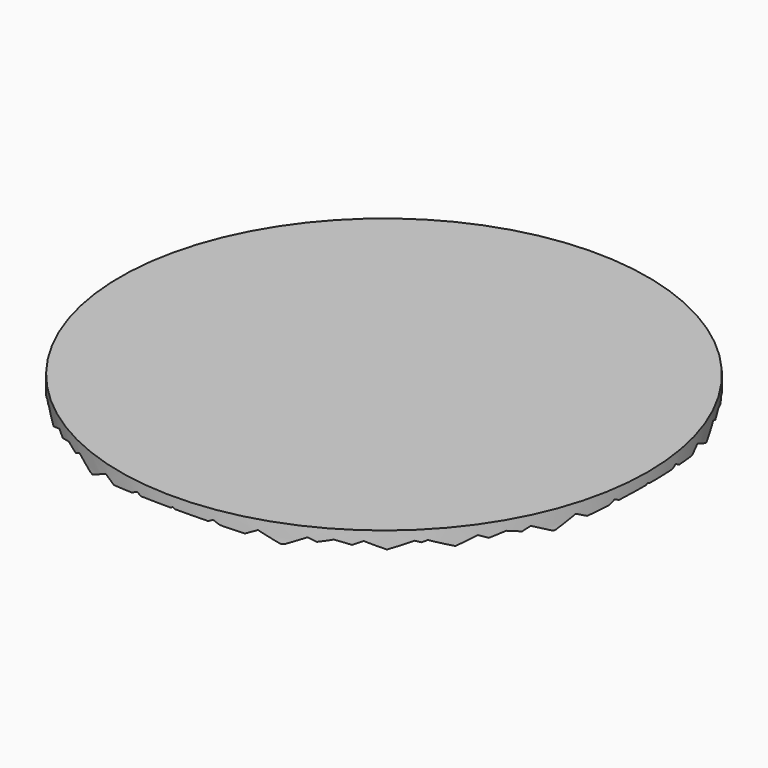
from build123d import *

# Parameters (mm, degrees)
F0_R     = 35.2425
F1_DEPTH = 2.54
F3_DEPTH = 50.8
F5_DEPTH = 50.8


with BuildPart() as f1:
    # F0 (on Top) → F1 (new body)
    with BuildSketch(Plane.XY):
        Circle(F0_R)
    extrude(amount=F1_DEPTH)

    # F2 (on Front) → F3 (cut, symmetric)
    with BuildSketch(Plane.XZ):
        Polygon((-35.56, 0), (-33.02, 0), (-35.56, 1.27), (-38.1, 0), align=None)
        Polygon((-30.48, 0), (-27.94, 0), (-30.48, 1.27), (-33.02, 0), align=None)
        Polygon((-25.4, 0), (-22.86, 0), (-25.4, 1.27), (-27.94, 0), align=None)
        Polygon((-20.32, 0), (-17.78, 0), (-20.32, 1.27), (-22.86, 0), align=None)
        Polygon((-15.24, 0), (-12.7, 0), (-15.24, 1.27), (-17.78, 0), align=None)
        Polygon((-10.16, 0), (-7.62, 0), (-10.16, 1.27), (-12.7, 0), align=None)
        Polygon((-5.08, 0), (-2.54, 0), (-5.08, 1.27), (-7.62, 0), align=None)
        Polygon((35.56, 1.27), (33.02, 0), (35.56, 0), (38.1, 0), align=None)
        Polygon((30.48, 1.27), (27.94, 0), (30.48, 0), (33.02, 0), align=None)
        Polygon((25.4, 1.27), (22.86, 0), (25.4, 0), (27.94, 0), align=None)
        Polygon((20.32, 1.27), (17.78, 0), (20.32, 0), (22.86, 0), align=None)
        Polygon((15.24, 1.27), (12.7, 0), (15.24, 0), (17.78, 0), align=None)
        Polygon((10.16, 1.27), (7.62, 0), (10.16, 0), (12.7, 0), align=None)
        Polygon((5.08, 1.27), (2.54, 0), (5.08, 0), (7.62, 0), align=None)
        Polygon((-2.54, 0), (0, 0), (2.54, 0), (0, 1.27), align=None)
    extrude(amount=F3_DEPTH, both=True, mode=Mode.SUBTRACT)

    # F4 (on Right) → F5 (cut, symmetric)
    with BuildSketch(Plane.YZ):
        Polygon((-35.56, 0), (-33.02, 0), (-35.56, 1.27), (-38.1, 0), align=None)
        Polygon((-30.48, 0), (-27.94, 0), (-30.48, 1.27), (-33.02, 0), align=None)
        Polygon((-25.4, 0), (-22.86, 0), (-25.4, 1.27), (-27.94, 0), align=None)
        Polygon((-20.32, 0), (-17.78, 0), (-20.32, 1.27), (-22.86, 0), align=None)
        Polygon((-15.24, 0), (-12.7, 0), (-15.24, 1.27), (-17.78, 0), align=None)
        Polygon((-10.16, 0), (-7.62, 0), (-10.16, 1.27), (-12.7, 0), align=None)
        Polygon((-5.08, 0), (-2.54, 0), (-5.08, 1.27), (-7.62, 0), align=None)
        Polygon((35.56, 1.27), (33.02, 0), (35.56, 0), (38.1, 0), align=None)
        Polygon((30.48, 1.27), (27.94, 0), (30.48, 0), (33.02, 0), align=None)
        Polygon((25.4, 1.27), (22.86, 0), (25.4, 0), (27.94, 0), align=None)
        Polygon((20.32, 1.27), (17.78, 0), (20.32, 0), (22.86, 0), align=None)
        Polygon((15.24, 1.27), (12.7, 0), (15.24, 0), (17.78, 0), align=None)
        Polygon((10.16, 1.27), (7.62, 0), (10.16, 0), (12.7, 0), align=None)
        Polygon((5.08, 1.27), (2.54, 0), (5.08, 0), (7.62, 0), align=None)
        Polygon((-2.54, 0), (0, 0), (2.54, 0), (0, 1.27), align=None)
    extrude(amount=F5_DEPTH, both=True, mode=Mode.SUBTRACT)


solid = f1.part
